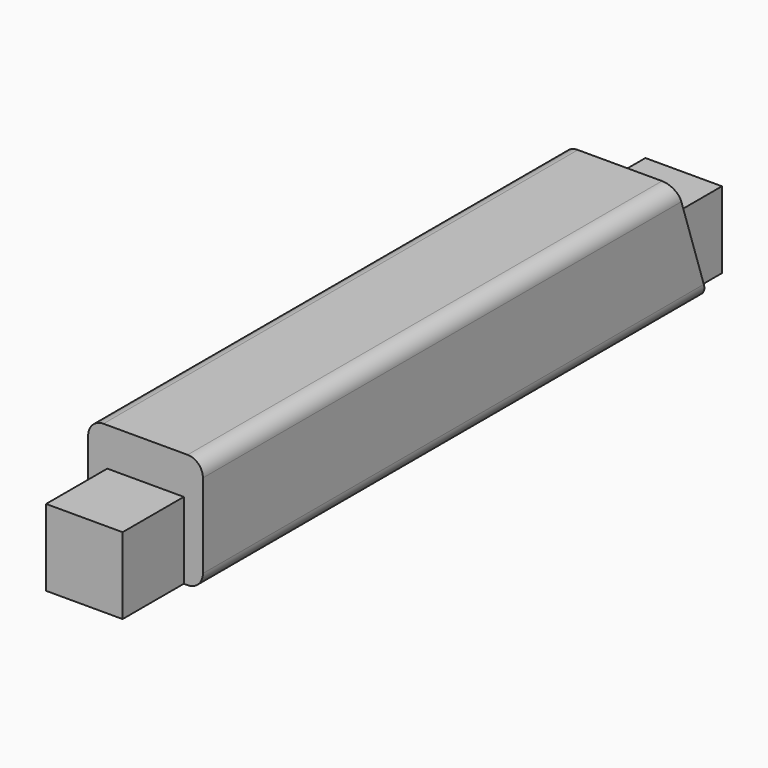
from build123d import *

# Parameters (mm, degrees)
F0_W      = 6
F0_H      = 50
F1_DEPTH  = 6
F2_W      = 4
F2_H      = 4
F3_DEPTH  = 5
F5_DEPTH  = 1
F7_DEPTH  = 1
F8_DEPTH  = 4
F10_DEPTH = 25
F11_W     = 1
F11_H     = 4
F12_DEPTH = 25
F13_DEPTH = 15
F14_DEPTH = 15
F16_DEPTH = 1
F18_DEPTH = 1
F20_DEPTH = 4
F21_DEPTH = 1.333
F22_R     = 0.8
F23_SCALE = 0.8


with BuildPart() as f1:
    # F0 (on Top) → F1 (new body)
    with BuildSketch(Plane.XY):
        Rectangle(F0_W, F0_H)
    extrude(amount=F1_DEPTH)

    # F2 (on face) → F3 (join)
    with BuildSketch(Plane.XZ.offset(25)):
        with Locations((0, 2)):
            Rectangle(F2_W, F2_H)
    extrude(amount=F3_DEPTH)

    # F4 (on face) → F5 (cut)
    with BuildSketch(Plane(origin=(-3, 0, 0), x_dir=(0, -1, 0), z_dir=(-1, 0, 0))):
        Polygon((-25, 6), (-25, 0), (-23, 0), align=None)
    extrude(amount=-F5_DEPTH, mode=Mode.SUBTRACT)

    # F6 (on face) → F7 (cut)
    with BuildSketch(Plane.YZ.offset(3)):
        Polygon((23, 0), (25, 0), (25, 6), align=None)
    extrude(amount=-F7_DEPTH, mode=Mode.SUBTRACT)

    # F8 (add): a face of the model
    f8_faces = [f1.faces().sort_by_distance(p)[0] for p in [
        (0, 25, 3),
    ]]
    extrude(f8_faces, amount=F8_DEPTH)

    # F9 (on face) → F10 (cut)
    with BuildSketch(Plane.YZ.offset(2)):
        Polygon((26.5, 4), (26.5, 0), (29, 0), (29, 6), (25, 6), (24.3333333333, 4), align=None)
    extrude(amount=-F10_DEPTH, mode=Mode.SUBTRACT)

    # F11 (on face) → F12 (cut)
    with BuildSketch(Plane(origin=(-2, 0, 0), x_dir=(0, -1, 0), z_dir=(-1, 0, 0))):
        with Locations((29.5, 2)):
            Rectangle(F11_W, F11_H)
    extrude(amount=-F12_DEPTH, mode=Mode.SUBTRACT)

    # F13 (cut): a face of the model
    f13_faces = [f1.faces().sort_by_distance(p)[0] for p in [
        (-2.5, -25, 0.0848528137),
    ]]
    extrude(f13_faces, amount=-F13_DEPTH, mode=Mode.SUBTRACT)

    # F14 (cut): a face of the model
    f14_faces = [f1.faces().sort_by_distance(p)[0] for p in [
        (0, -29, 2),
    ]]
    extrude(f14_faces, amount=-F14_DEPTH, mode=Mode.SUBTRACT)

    # F15 (on face) → F16 (cut)
    with BuildSketch(Plane.YZ.offset(3)):
        Polygon((23, 0), (25, 6), (21, 6), align=None)
    extrude(amount=-F16_DEPTH, mode=Mode.SUBTRACT)

    # F17 (on face) → F18 (cut)
    with BuildSketch(Plane(origin=(-3, 0, 0), x_dir=(0, -1, 0), z_dir=(-1, 0, 0))):
        Polygon((-21, 6), (-25, 6), (-23, 0), align=None)
    extrude(amount=-F18_DEPTH, mode=Mode.SUBTRACT)

    # F19 (on face) → F20 (cut)
    with BuildSketch(Plane(origin=(-2, 0, 0), x_dir=(0, -1, 0), z_dir=(-1, 0, 0))):
        Polygon((-25, 6), (-24.3333333333, 4), (-21.6666666667, 4), (-21, 6), align=None)
    extrude(amount=-F20_DEPTH, mode=Mode.SUBTRACT)

    # F21 (cut): a face of the model
    f21_faces = [f1.faces().sort_by_distance(p)[0] for p in [
        (0, 26.5, 2),
    ]]
    extrude(f21_faces, amount=-F21_DEPTH, mode=Mode.SUBTRACT)

    # F22
    f22_edges = [f1.edges().sort_by_distance(p)[0] for p in [
        (3, 5.5, 6),
        (3, 6.5, 0),
        (-3, 5.5, 6),
        (-3, 6.5, 0),
    ]]
    fillet(f22_edges, radius=F22_R)


with BuildPart() as f1_1:
    # F23: moved
    add(f1.part.scale(F23_SCALE))


solid = f1_1.part
